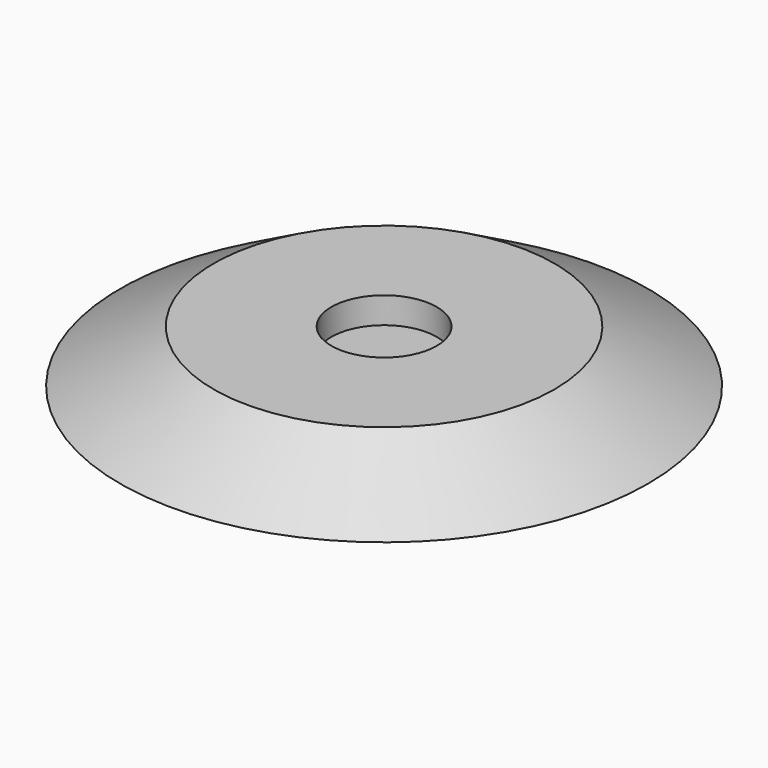
from build123d import *

# Parameters (mm, degrees)
F0_R     = 25.448681
F2_R     = 16.436347
F4_R     = 5.08
F5_DEPTH = 2.54


with BuildPart() as f3:
    # F0 (on Top) → F3 section 0
    with BuildSketch(Plane.XY):
        Circle(F0_R)
    # F2 (on offset) → F3 section 1
    with BuildSketch(Plane.XY.offset(5.08)):
        Circle(F2_R)
    loft()

    # F4 (on face) → F5 (cut)
    with BuildSketch(Plane.XY.offset(5.08)):
        Circle(F4_R)
    extrude(amount=-F5_DEPTH, mode=Mode.SUBTRACT)


solid = f3.part
